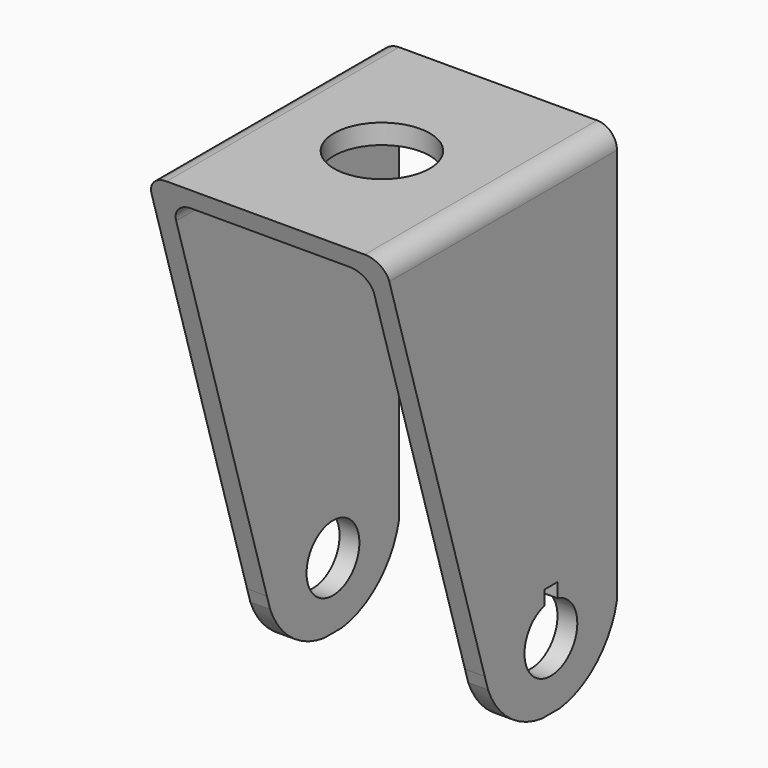
from build123d import *

# Parameters (mm, degrees)
F1_DEPTH  = 44
F3_DEPTH  = 55.2
F5_DEPTH  = 63.6
F7_DEPTH  = 49.8
F9_DEPTH  = 25
F10_R     = 7.25
F11_DEPTH = 25
F12_R     = 3
F13_R     = 3
F14_R     = 3
F15_R     = 3


with BuildPart() as f1:
    # F0 (on Front) → F1 (new body)
    with BuildSketch(Plane.XZ):
        Polygon((-36, 0), (-33, 0), (-33, 70), (-3, 70), (-3, 0), (0, 0), (0, 73), (-36, 73), align=None)
    extrude(amount=F1_DEPTH)

    # F2 (on face) → F3 (cut)
    with BuildSketch(Plane.YZ):
        Polygon((-44, 73), (-44, 10), (-25.0136986301, 10), align=None)
        Polygon((-25.0136986301, 10), (-44, 10), (-44, 0), (-22, 0), align=None)
    extrude(amount=-F3_DEPTH, mode=Mode.SUBTRACT)

    # F4 (on face) → F5 (cut)
    with BuildSketch(Plane.YZ):
        with BuildLine():
            Line((-24.407023006, 7.9869399744), (-25.0136986301, 10))
            ThreePointArc((-25.0136986301, 10), (-24.7517991178, 8.9809817325), (-24.407023006, 7.9869399744))
        make_face()
        with BuildLine():
            Line((-24.407023006, 7.9869399744), (-25.0136986301, 10))
            ThreePointArc((-25.0136986301, 10), (-24.7517991178, 8.9809817325), (-24.407023006, 7.9869399744))
        make_face()
        with BuildLine():
            Line((-22, 0), (-14.237880293, 0))
            ThreePointArc((-14.237880293, 0), (-20.4062314251, 2.6135784089), (-24.407023006, 7.9869399744))
            Line((-24.407023006, 7.9869399744), (-22, 0))
        make_face()
        with BuildLine():
            Line((0, 0), (0, 10))
            ThreePointArc((0, 10), (-3.807463773, 3.2969407526), (-10.7758183371, 0))
            Line((-10.7758183371, 0), (0, 0))
        make_face()
    extrude(amount=-F5_DEPTH, mode=Mode.SUBTRACT)

    # F4 (on face) + F6 (on face) → F7 (cut)
    with BuildSketch(Plane.YZ):
        with BuildLine():
            Line((-17.5068493151, 10), (-7.5068493151, 10))
            ThreePointArc((-7.5068493151, 10), (-12.5068493151, 15), (-17.5068493151, 10))
        make_face()
    with BuildSketch(Plane.YZ):
        with BuildLine():
            Line((-7.5068493151, 10), (-17.5068493151, 10))
            ThreePointArc((-17.5068493151, 10), (-12.5068493151, 5), (-7.5068493151, 10))
        make_face()
    extrude(amount=-F7_DEPTH, mode=Mode.SUBTRACT)

    # F8 (on face) → F9 (cut)
    with BuildSketch(Plane.YZ):
        with BuildLine():
            Line((-11.2372876331, 17.0134898722), (-13.7372876331, 17.0134898722))
            Line((-13.7372876331, 17.0134898722), (-13.7372876331, 14.8462378755))
            ThreePointArc((-13.7372876331, 14.8462378755), (-12.4866460858, 14.9999591828), (-11.2372876331, 14.8361361784))
            Line((-11.2372876331, 14.8361361784), (-11.2372876331, 17.0134898722))
        make_face()
        with BuildLine():
            ThreePointArc((-11.2372876331, 14.8361361784), (-12.4866460858, 14.9999591828), (-13.7372876331, 14.8462378755))
            Line((-13.7372876331, 14.8462378755), (-13.7372876331, 13.0134898722))
            Line((-13.7372876331, 13.0134898722), (-11.2372876331, 13.0134898722))
            Line((-11.2372876331, 13.0134898722), (-11.2372876331, 14.8361361784))
        make_face()
    extrude(amount=-F9_DEPTH, mode=Mode.SUBTRACT)

    # F10 (on face) → F11 (cut)
    with BuildSketch(Plane.XY.offset(73)):
        with Locations((-18, -22)):
            Circle(F10_R)
    extrude(amount=-F11_DEPTH, mode=Mode.SUBTRACT)

    # F12
    f12_edges = [f1.edges().sort_by_distance(p)[0] for p in [
        (0, -22, 73),
    ]]
    fillet(f12_edges, radius=F12_R)

    # F13
    f13_edges = [f1.edges().sort_by_distance(p)[0] for p in [
        (-36, -22, 73),
    ]]
    fillet(f13_edges, radius=F13_R)

    # F14
    f14_edges = [f1.edges().sort_by_distance(p)[0] for p in [
        (-33, -21.547945, 70),
    ]]
    fillet(f14_edges, radius=F14_R)

    # F15
    f15_edges = [f1.edges().sort_by_distance(p)[0] for p in [
        (-3, -21.547945, 70),
    ]]
    fillet(f15_edges, radius=F15_R)


solid = f1.part
